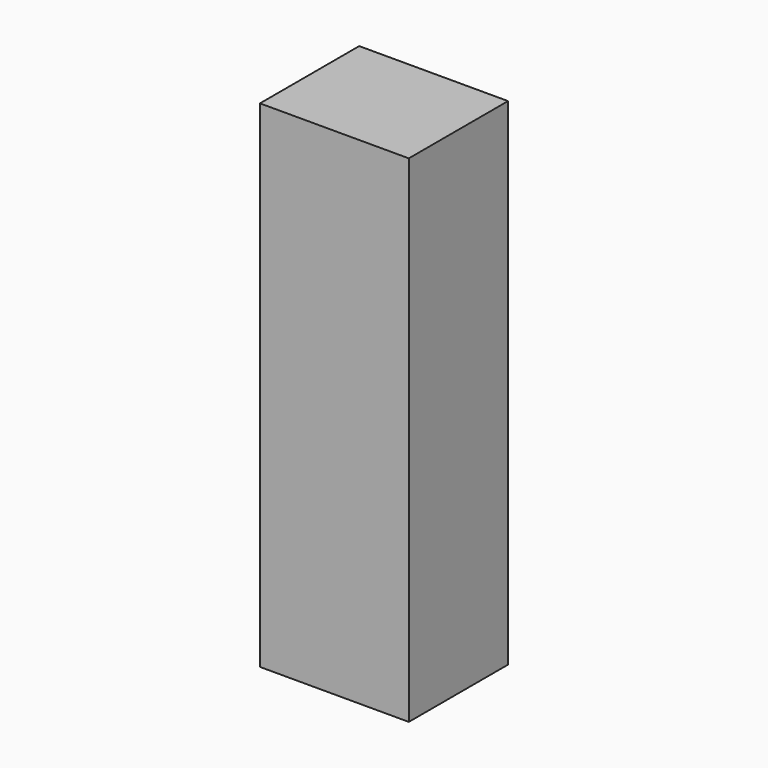
from build123d import *

# Parameters (mm, degrees)
F1_DEPTH = 5


with BuildPart() as f1:
    # F0 (on Front) → F1 (new body)
    with BuildSketch(Plane.XZ):
        Polygon((0, 10), (0, 0), (0, -10), (3, -10), (3, 10), align=None)
        Polygon((0, -10), (0, 0), (0, 10), (-3, 10), (-3, -10), align=None)
    extrude(amount=-F1_DEPTH)


solid = f1.part
